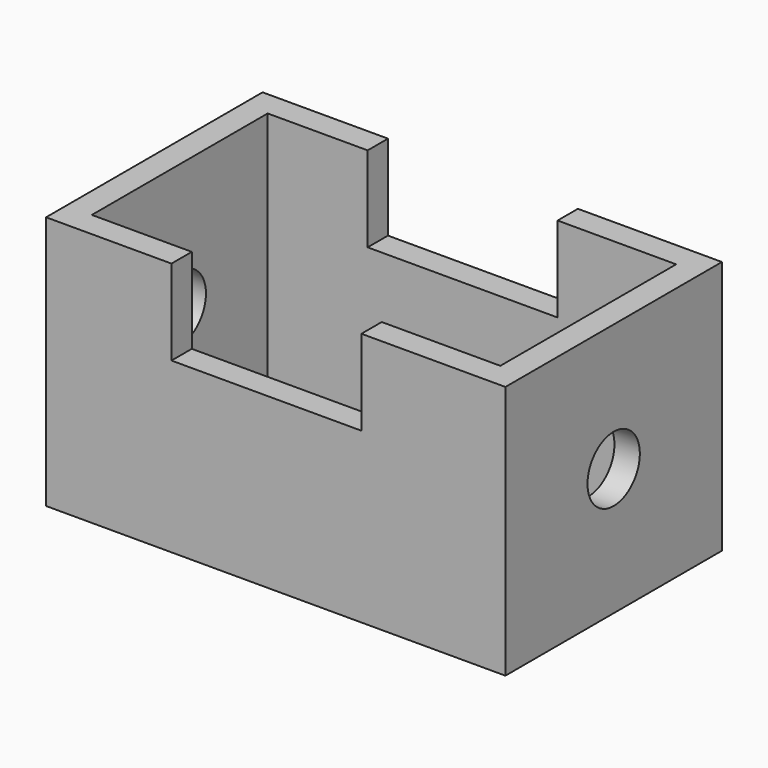
from build123d import *

# Parameters (mm, degrees)
F0_W     = 137.691636
F0_H     = 81.126414
F1_DEPTH = 76.2
F2_T     = -7.62
F3_W     = 56.93736
F3_H     = 51.178044
F4_DEPTH = 81.127414
F5_R     = 9.811044
F6_DEPTH = 137.692636


with BuildPart() as f1:
    # F0 (on Top) → F1 (new body)
    with BuildSketch(Plane.XY):
        with Locations((2.791045, 0)):
            Rectangle(F0_W, F0_H)
    extrude(amount=F1_DEPTH)

    # F2
    f2_openings = [f1.faces().sort_by_distance(p)[0] for p in [
        (2.791045, 0, 76.2),
        (2.791045, 0, 0),
    ]]
    offset(amount=F2_T, openings=f2_openings)

    # F3 (on face) → F4 (cut, through all)
    with BuildSketch(Plane.XZ.offset(40.563207)):
        with Locations((0, 76.2)):
            Rectangle(F3_W, F3_H)
    extrude(amount=-F4_DEPTH, mode=Mode.SUBTRACT)

    # F5 (on face) → F6 (cut, through all)
    with BuildSketch(Plane.YZ.offset(71.636863)):
        with Locations((0, 38.1)):
            Circle(F5_R)
    extrude(amount=-F6_DEPTH, mode=Mode.SUBTRACT)


solid = f1.part
